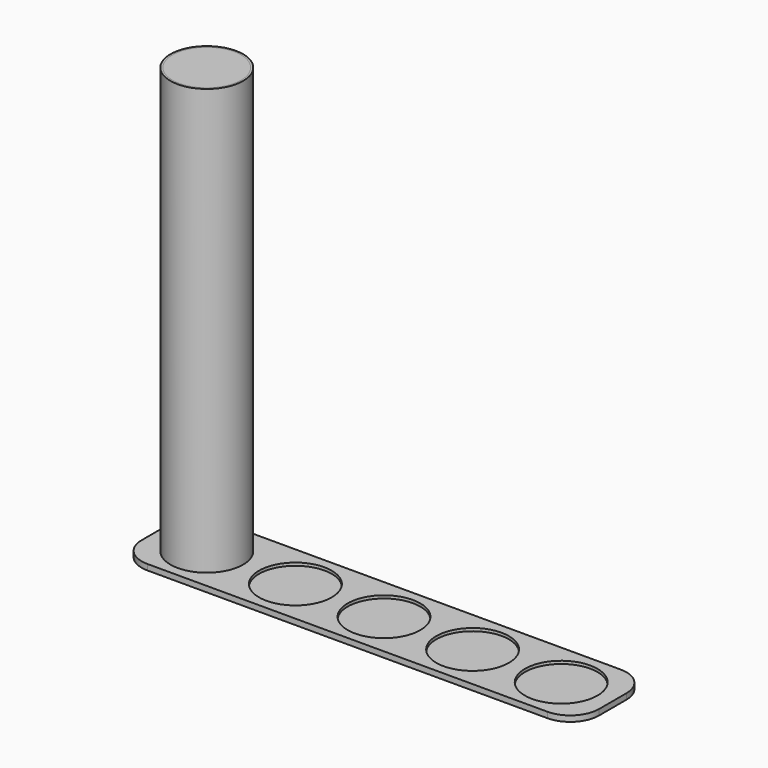
from build123d import *

# Parameters (mm, degrees)
F0_W      = 800
F0_H      = 160
F1_DEPTH  = 10
F2_R      = 63.5
F3_DEPTH  = 5
F4_R      = 50
F5_R      = 60
F6_DEPTH  = 10
F5_R_2    = 63.5
F7_DEPTH  = 750
F6_FACE_R = 60
F8_DEPTH  = 740


with BuildPart() as f1:
    # F0 (on Top) → F1 (new body)
    with BuildSketch(Plane.XY):
        Rectangle(F0_W, F0_H)
    extrude(amount=F1_DEPTH)

    # F2 (on face) → F3 (cut)
    with BuildSketch(Plane.XY.offset(10)):
        with Locations((-310, 0)):
            Circle(F2_R)
        with Locations((-155, 0)):
            Circle(F2_R)
        Circle(F2_R)
        with Locations((155, 0)):
            Circle(F2_R)
        with Locations((310, 0)):
            Circle(F2_R)
    extrude(amount=-F3_DEPTH, mode=Mode.SUBTRACT)

    # F4
    f4_edges = [f1.edges().sort_by_distance(p)[0] for p in [
        (-400, -80, 5),
        (400, -80, 5),
        (400, 80, 5),
        (-400, 80, 5),
    ]]
    fillet(f4_edges, radius=F4_R)


with BuildPart() as f6:
    # F5 (on face) → F6 (new body)
    with BuildSketch(Plane.XY.offset(5)):
        with Locations((-310, 0)):
            Circle(F5_R)
    extrude(amount=F6_DEPTH)


with BuildPart() as f7:
    # F5 (on face) → F7 (new body)
    with BuildSketch(Plane.XY.offset(5)):
        with Locations((-310, 0)):
            Circle(F5_R_2)
        with Locations((-310, 0)):
            Circle(F5_R, mode=Mode.SUBTRACT)
    extrude(amount=F7_DEPTH)


with BuildPart() as f8:
    # F6_face (on face) → F8 (new body)
    with BuildSketch(Plane(origin=(-310, 0, 15), x_dir=(1, 0, 0), z_dir=(0, 0, 1))):
        Circle(F6_FACE_R)
    extrude(amount=F8_DEPTH)


solid = Compound([f1.part, f6.part, f7.part, f8.part])
